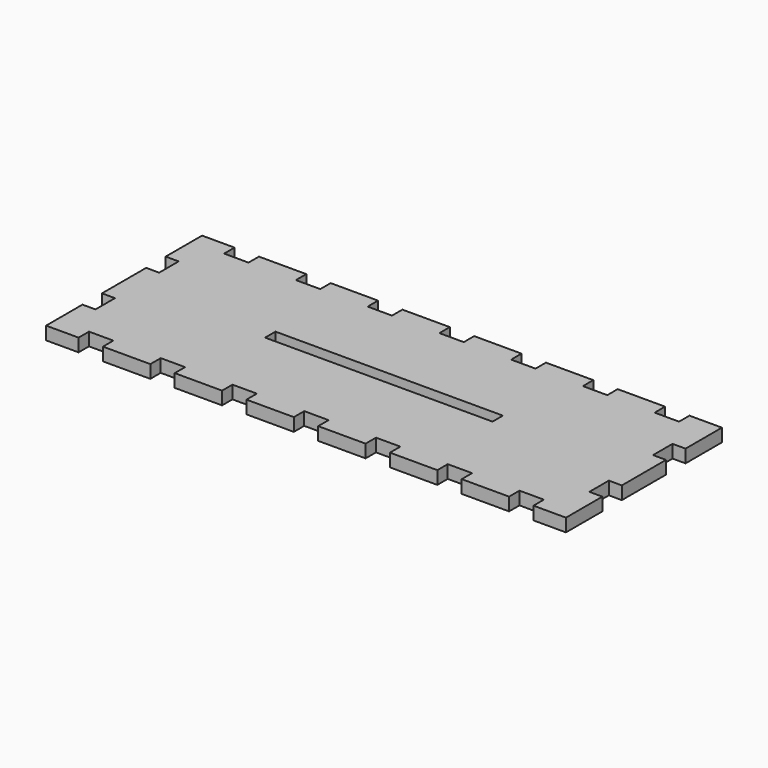
from build123d import *

# Parameters (mm, degrees)
SKETCH_W                           = 160
SKETCH_H                           = 60
PAD_DEPTH                          = 4
SKETCH001_W                        = 7.5
SKETCH001_H                        = 4
POCKET_DEPTH                       = 4
LINEARPATTERN_COUNT                = 7
LINEARPATTERN_PITCH                = 22.083333
SKETCH005_W                        = 4
SKETCH005_H                        = 7.5
POCKET001_DEPTH                    = 4
SKETCH005_LINEARPATTERN011_2_W     = 4
SKETCH005_LINEARPATTERN011_2_H     = 7.5
POCKET001_LINEARPATTERN011_2_DEPTH = 4
SKETCH012_W                        = 70
SKETCH012_H                        = 4
POCKET005_DEPTH                    = 4


with BuildPart() as part:
    # Sketch → Pad (new body)
    with BuildSketch(Plane.XY):
        Rectangle(SKETCH_W, SKETCH_H)
    extrude(amount=PAD_DEPTH)

    # Sketch001 (on Face6 of Pad) → Pocket (cut)
    with BuildSketch(Plane.XY.offset(4)):
        with Locations((-66.25, 28)):
            Rectangle(SKETCH001_W, SKETCH001_H)
        with Locations((-66.25, -28)):
            Rectangle(SKETCH001_W, SKETCH001_H)
    pocket = extrude(amount=-POCKET_DEPTH, mode=Mode.SUBTRACT)

    # LinearPattern: Pocket ×7
    with Locations(*[(i * LINEARPATTERN_PITCH, 0, 0) for i in range(1, LINEARPATTERN_COUNT)]):
        add(pocket, mode=Mode.SUBTRACT)

    # Sketch005 (on Face4 of LinearPattern) → Pocket001 (cut)
    with BuildSketch(Plane.XY.offset(4)):
        with Locations((-78, 12.25)):
            Rectangle(SKETCH005_W, SKETCH005_H)
    pocket001 = extrude(amount=-POCKET001_DEPTH, mode=Mode.SUBTRACT)

    # Sketch005 LinearPattern011 2 → Pocket001 LinearPattern011 2 (cut)
    with BuildSketch(Plane(origin=(0, -24.5, 4), x_dir=(1, 0, 0), z_dir=(0, 0, 1))):
        with Locations((-78, 12.25)):
            Rectangle(SKETCH005_LINEARPATTERN011_2_W, SKETCH005_LINEARPATTERN011_2_H)
    pocket001_linearpattern011_2 = extrude(amount=-POCKET001_LINEARPATTERN011_2_DEPTH, mode=Mode.SUBTRACT)

    # Mirrored002: Pocket001, Pocket001 LinearPattern011 2 across Sketch005 V_Axis
    add(pocket001.mirror(Plane(origin=(0, 0, 4), x_dir=(0, 0, 1), z_dir=(1, 0, 0))), mode=Mode.SUBTRACT)
    add(pocket001_linearpattern011_2.mirror(Plane(origin=(0, 0, 4), x_dir=(0, 0, 1), z_dir=(1, 0, 0))), mode=Mode.SUBTRACT)

    # Sketch012 (on Face4 of MultiTransform004) → Pocket005 (cut)
    with BuildSketch(Plane.XY.offset(4)):
        Rectangle(SKETCH012_W, SKETCH012_H)
    extrude(amount=-POCKET005_DEPTH, mode=Mode.SUBTRACT)


solid = part.part
